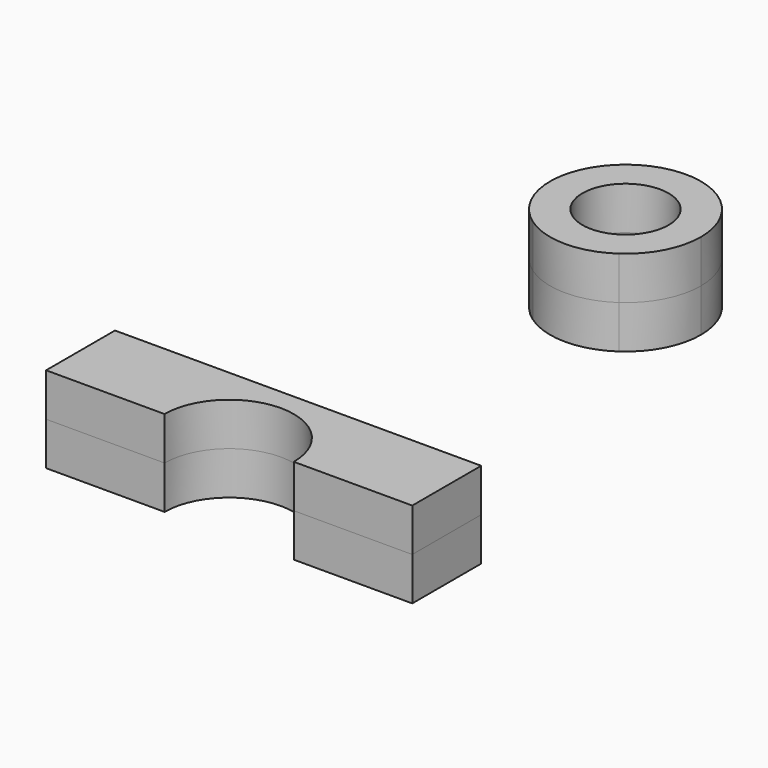
from build123d import *

# Parameters (mm, degrees)
F0_R     = 2
F2_DEPTH = 2


with BuildPart() as f2:
    # F0 (on Top) → F2 (new body)
    with BuildSketch(Plane.XY):
        with BuildLine():
            ThreePointArc((-2, 8.627719), (0, 8), (2, 8.627719))
            ThreePointArc((2, 8.627719), (3.102418, 9.879815), (3.5, 11.5))
            ThreePointArc((3.5, 11.5), (-1.620185, 14.602418), (-2, 8.627719))
        make_face()
        with Locations((0, 11.5)):
            Circle(F0_R, mode=Mode.SUBTRACT)
        with BuildLine():
            ThreePointArc((-3, -11.5), (0, -8.5), (3, -11.5))
            Line((3, -11.5), (4.5, -11.5))
            Line((4.5, -11.5), (8.5, -11.5))
            Line((8.5, -11.5), (8.5, -7.5))
            Line((8.5, -7.5), (-8.5, -7.5))
            Line((-8.5, -7.5), (-8.5, -11.5))
            Line((-8.5, -11.5), (-4.5, -11.5))
            Line((-4.5, -11.5), (-3, -11.5))
        make_face()
    extrude(amount=F2_DEPTH)


with BuildPart() as f5_1:
    # F5: instance of F2
    add(f2.part.mirror(Plane.XY))


solid = Compound([f2.part, f5_1.part])
